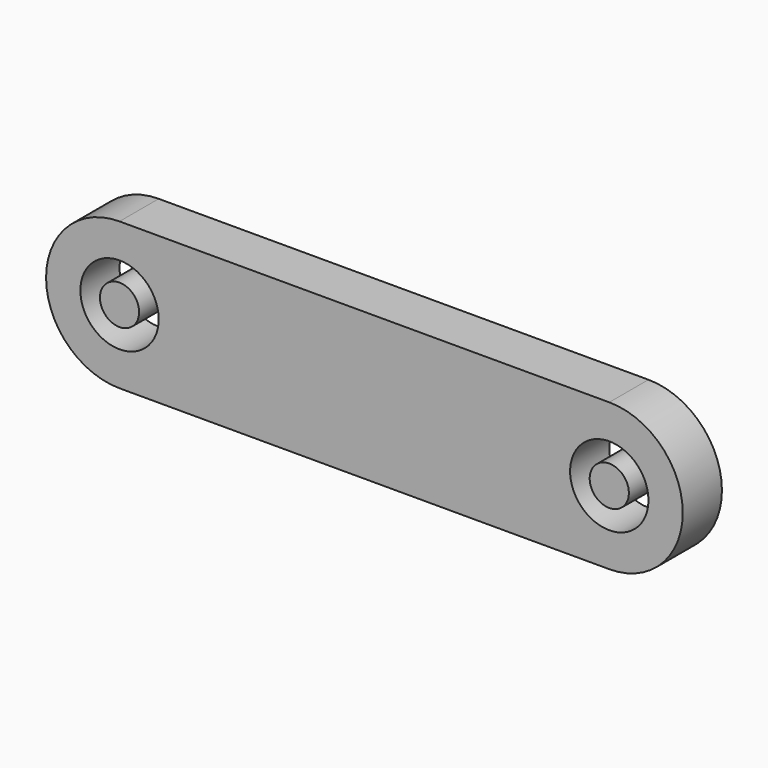
from build123d import *

# Parameters (mm, degrees)
F0_R     = 4
F1_DEPTH = 5
F2_R     = 2
F3_DEPTH = 5


with BuildPart() as f1:
    # F0 (on Front) → F1 (new body)
    with BuildSketch(Plane.XZ):
        with BuildLine():
            Line((50, 7.5), (0, 7.5))
            ThreePointArc((0, 7.5), (-7.5, 0), (0, -7.5))
            Line((0, -7.5), (50, -7.5))
            ThreePointArc((50, -7.5), (57.5, 0), (50, 7.5))
        make_face()
        Circle(F0_R, mode=Mode.SUBTRACT)
        with Locations((50, 0)):
            Circle(F0_R, mode=Mode.SUBTRACT)
    extrude(amount=F1_DEPTH)


with BuildPart() as f3:
    # F2 (on Front) → F3 (new body)
    with BuildSketch(Plane.XZ):
        Circle(F2_R)
        with Locations((50, 0)):
            Circle(F2_R)
    extrude(amount=F3_DEPTH)


solid = Compound([f1.part, f3.part])
